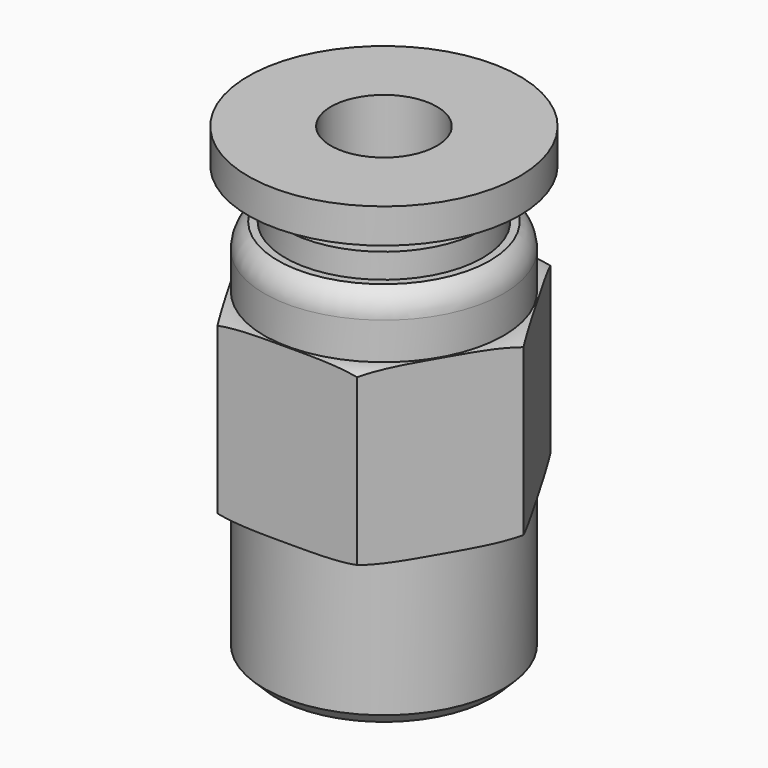
from build123d import *

# Parameters (mm, degrees)
F2_R     = 2.15
F3_DEPTH = 19.001
F4_R     = 9
F5_DEPTH = 14
F6_SIZE  = 0.5


with BuildPart() as f1:
    # F0 (on Front) → F1 (revolve)
    with BuildSketch(Plane.XZ):
        with BuildLine():
            Line((0, 19), (0, 0))
            Line((0, 0), (4.85, 0))
            Line((4.85, 0), (4.85, 6.1))
            ThreePointArc((4.85, 6.1), (6.160773, 6.512059), (7, 7.6))
            Line((7, 7.6), (7, 11.6))
            ThreePointArc((7, 11.6), (6.160773, 12.687941), (4.85, 13.1))
            Line((4.85, 13.1), (4.85, 14.6))
            ThreePointArc((4.85, 14.6), (4.703428, 15.170636), (4.3, 15.6))
            Line((4.3, 15.6), (4, 15.6))
            Line((4, 15.6), (4, 16.6))
            Line((4, 16.6), (3, 16.6))
            Line((3, 16.6), (3, 17.6))
            Line((3, 17.6), (5.5, 17.6))
            Line((5.5, 17.6), (5.5, 19))
            Line((5.5, 19), (0, 19))
        make_face()
    revolve(axis=Axis((0, 0, 9.5), (0, 0, 1)))

    # F2 (on face) → F3 (cut, through all)
    with BuildSketch(Plane.XY.offset(19)):
        Circle(F2_R)
    extrude(amount=-F3_DEPTH, mode=Mode.SUBTRACT)

    # F4 (on face) → F5 (cut)
    with BuildSketch(Plane(origin=(0, 0, 0), x_dir=(1, 0, 0), z_dir=(0, 0, -1))):
        Circle(F4_R)
        Polygon((-2.829016, 4.9), (2.829016, 4.9), (5.658033, 0), (2.829016, -4.9), (-2.829016, -4.9), (-5.658033, 0), align=None, mode=Mode.SUBTRACT)
    extrude(amount=-F5_DEPTH, mode=Mode.SUBTRACT)

    # F6
    f6_edges = [f1.edges().sort_by_distance(p)[0] for p in [
        (-4.85, 0, 0),
    ]]
    chamfer(f6_edges, length=F6_SIZE)


solid = f1.part
